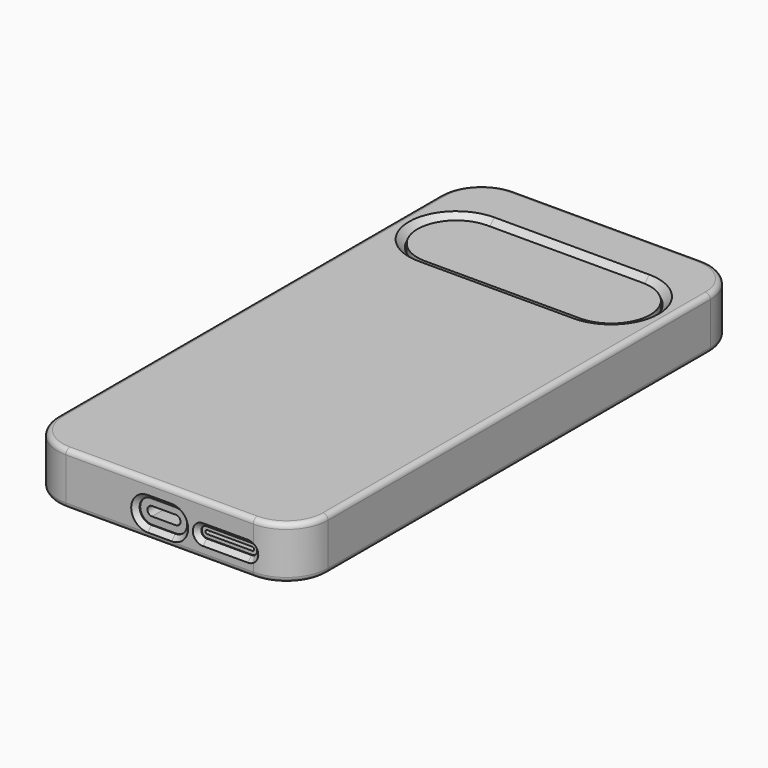
from build123d import *

# Parameters (mm, degrees)
PAD_DEPTH       = 8.5
FILLET_R        = 1
PAD001_DEPTH    = 3.5
PAD003_DEPTH    = 0.5
PAD004_DEPTH    = 0.5
POCKET002_DEPTH = 10
POCKET003_DEPTH = 5
PAD002_DEPTH    = 14.5
POCKET_DEPTH    = 10
POCKET001_DEPTH = 4.5
POCKET004_DEPTH = 5
POCKET005_DEPTH = 5
POCKET006_DEPTH = 5
PAD005_DEPTH    = 1.5
CHAMFER_SIZE    = 1.3
FILLET001_R     = 1.4
CHAMFER001_SIZE = 2


with BuildPart() as phone:
    # Sketch → Pad (new body)
    with BuildSketch(Plane.XY):
        with BuildLine():
            Line((-26, -76.3), (26, -76.3))
            ThreePointArc((26, -76.3), (33.071068, -73.371068), (36, -66.3))
            Line((36, -66.3), (36, 66.3))
            ThreePointArc((36, 66.3), (33.071068, 73.371068), (26, 76.3))
            Line((26, 76.3), (-26, 76.3))
            ThreePointArc((-26, 76.3), (-33.071068, 73.371068), (-36, 66.3))
            Line((-36, 66.3), (-36, -66.3))
            ThreePointArc((-36, -66.3), (-33.071068, -73.371068), (-26, -76.3))
        make_face()
    extrude(amount=PAD_DEPTH)

    # Fillet
    fillet_edges = [phone.edges().sort_by_distance(p)[0] for p in [
        (-26, -76.3, 4.25),
        (26, -76.3, 4.25),
        (0, -76.3, 0),
        (0, -76.3, 8.5),
        (36, -66.3, 4.25),
        (33.071068, -73.371068, 0),
        (33.071068, -73.371068, 8.5),
        (36, 66.3, 4.25),
        (36, 0, 0),
        (36, 0, 8.5),
        (26, 76.3, 4.25),
        (33.071068, 73.371068, 0),
        (33.071068, 73.371068, 8.5),
        (-26, 76.3, 4.25),
        (0, 76.3, 0),
        (0, 76.3, 8.5),
        (-36, 66.3, 4.25),
        (-33.071068, 73.371068, 0),
        (-33.071068, 73.371068, 8.5),
        (-36, -66.3, 4.25),
        (-36, 0, 0),
        (-36, 0, 8.5),
        (-33.071068, -73.371068, 0),
        (-33.071068, -73.371068, 8.5),
    ]]
    fillet(fillet_edges, radius=FILLET_R)

    # Sketch002 (on Face10 of Pad) → Pad001 (join)
    with BuildSketch(Plane.XY.offset(8.5)):
        with BuildLine():
            ThreePointArc((-21.5, 62.7), (-32.25, 51.95), (-21.5, 41.2))
            Line((-21.5, 41.2), (21.5, 41.2))
            ThreePointArc((21.5, 41.2), (32.25, 51.95), (21.5, 62.7))
            Line((-21.5, 62.7), (21.5, 62.7))
        make_face()
    extrude(amount=PAD001_DEPTH)

    # Sketch003 (on Face6 of Pad001) → Pad003 (join)
    with BuildSketch(Plane(origin=(-36, 0, 0), x_dir=(0, -1, 0), z_dir=(-1, 0, 0))):
        with BuildLine():
            Line((-35.3, 4.26), (-35.3, 4.24))
            ThreePointArc((-35.3, 4.24), (-34.863589, 3.186411), (-33.81, 2.75))
            Line((-33.81, 2.75), (-24.79, 2.75))
            ThreePointArc((-24.79, 2.75), (-23.736411, 3.186411), (-23.3, 4.24))
            Line((-23.3, 4.24), (-23.3, 4.26))
            ThreePointArc((-23.3, 4.26), (-23.736411, 5.313589), (-24.79, 5.75))
            Line((-24.79, 5.75), (-33.81, 5.75))
            ThreePointArc((-33.81, 5.75), (-34.863589, 5.313589), (-35.3, 4.26))
        make_face()
    extrude(amount=PAD003_DEPTH)

    # Sketch004 (on Face6 of Pad001) → Pad004 (join)
    with BuildSketch(Plane(origin=(-36, 0, 0), x_dir=(0, -1, 0), z_dir=(-1, 0, 0))):
        with BuildLine():
            Line((-16.3, 4.26), (-16.3, 4.24))
            ThreePointArc((-16.3, 4.24), (-15.863589, 3.186411), (-14.81, 2.75))
            Line((-14.81, 2.75), (4.21, 2.75))
            ThreePointArc((4.21, 2.75), (5.263589, 3.186411), (5.7, 4.24))
            Line((5.7, 4.24), (5.7, 4.26))
            ThreePointArc((5.7, 4.26), (5.263589, 5.313589), (4.21, 5.75))
            Line((4.21, 5.75), (-14.81, 5.75))
            ThreePointArc((-14.81, 5.75), (-15.863589, 5.313589), (-16.3, 4.26))
        make_face()
    extrude(amount=PAD004_DEPTH)

    # Sketch005 (on Face1 of Pad004) → Pocket002 (cut)
    with BuildSketch(Plane.XZ.offset(76.3)):
        with BuildLine():
            ThreePointArc((-3.315, 5.9), (-4.595, 4.62), (-3.315, 3.34))
            Line((-3.315, 3.34), (3.315, 3.34))
            ThreePointArc((3.315, 3.34), (4.595, 4.62), (3.315, 5.9))
            Line((-3.315, 5.9), (3.315, 5.9))
        make_face()
    extrude(amount=-POCKET002_DEPTH, mode=Mode.SUBTRACT)

    # Sketch006 (on Face1 of Pocket002) → Pocket003 (cut)
    with BuildSketch(Plane.XZ.offset(76.3)):
        with BuildLine():
            ThreePointArc((12, 5), (11.5, 4.5), (12, 4))
            Line((12, 4), (24.5, 4))
            ThreePointArc((24.5, 4), (25, 4.5), (24.5, 5))
            Line((12, 5), (24.5, 5))
        make_face()
    extrude(amount=-POCKET003_DEPTH, mode=Mode.SUBTRACT)


with BuildPart() as body001:
    # Binder → Pad002 (new body)
    with BuildSketch(Plane(origin=(0, 0, 13), x_dir=(0, 1, 0), z_dir=(0, 0, 1))):
        with BuildLine():
            Line((-77.8, 26), (-77.8, -26))
            ThreePointArc((-77.8, -26), (-74.431728, -34.131728), (-66.3, -37.5))
            Line((-66.3, -37.5), (66.3, -37.5))
            ThreePointArc((66.3, -37.5), (74.431728, -34.131728), (77.8, -26))
            Line((77.8, -26), (77.8, 26))
            ThreePointArc((77.8, 26), (74.431728, 34.131728), (66.3, 37.5))
            Line((66.3, 37.5), (-66.3, 37.5))
            ThreePointArc((-66.3, 37.5), (-74.431728, 34.131728), (-77.8, 26))
        make_face()
    extrude(amount=-PAD002_DEPTH)

    # Binder002 → Pocket (cut)
    with BuildSketch(Plane(origin=(0, 0, -1.5), x_dir=(0, -1, 0), z_dir=(0, 0, -1))):
        with BuildLine():
            Line((76.3, -26), (76.3, 26))
            ThreePointArc((76.3, 26), (73.371068, 33.071068), (66.3, 36))
            Line((66.3, 36), (-66.3, 36))
            ThreePointArc((-66.3, 36), (-73.371068, 33.071068), (-76.3, 26))
            Line((-76.3, 26), (-76.3, -26))
            ThreePointArc((-76.3, -26), (-73.371068, -33.071068), (-66.3, -36))
            Line((-66.3, -36), (66.3, -36))
            ThreePointArc((66.3, -36), (73.371068, -33.071068), (76.3, -26))
        make_face()
    extrude(amount=-POCKET_DEPTH, mode=Mode.SUBTRACT)

    # Binder001 → Pocket001 (cut)
    with BuildSketch(Plane(origin=(0, 51.95, 13), x_dir=(0, 1, 0), z_dir=(0, 0, 1))):
        with BuildLine():
            ThreePointArc((11.15, 21.5), (0, 32.65), (-11.15, 21.5))
            Line((-11.15, 21.5), (-11.15, -21.5))
            ThreePointArc((-11.15, -21.5), (0, -32.65), (11.15, -21.5))
            Line((11.15, -21.5), (11.15, 21.5))
        make_face()
    extrude(amount=-POCKET001_DEPTH, mode=Mode.SUBTRACT)

    # Binder004 → Pocket004 (cut)
    with BuildSketch(Plane(origin=(0, -76.3, 4.62), x_dir=(-1, 0, 0), z_dir=(0, -1, 0))):
        with BuildLine():
            ThreePointArc((3.315, -3.28), (6.595, 0), (3.315, 3.28))
            Line((3.315, 3.28), (-3.315, 3.28))
            ThreePointArc((-3.315, 3.28), (-6.595, 0), (-3.315, -3.28))
            Line((-3.315, -3.28), (3.315, -3.28))
        make_face()
    extrude(amount=POCKET004_DEPTH, mode=Mode.SUBTRACT)

    # Binder003 → Pocket005 (cut)
    with BuildSketch(Plane(origin=(18.25, -76.3, 4.5), x_dir=(-1, 0, 0), z_dir=(0, -1, 0))):
        with BuildLine():
            ThreePointArc((6.25, -1.5), (7.75, 0), (6.25, 1.5))
            Line((6.25, 1.5), (-6.25, 1.5))
            ThreePointArc((-6.25, 1.5), (-7.75, 0), (-6.25, -1.5))
            Line((-6.25, -1.5), (6.25, -1.5))
        make_face()
    extrude(amount=POCKET005_DEPTH, mode=Mode.SUBTRACT)

    # Binder005 → Pocket006 (cut)
    with BuildSketch(Plane(origin=(-35.5, 5.3, 4.25), x_dir=(0, -1, 0), z_dir=(1, 0, 0))):
        with BuildLine():
            Line((-13, 0.01), (-13, -0.01))
            ThreePointArc((-13, -0.01), (-11.977803, -2.477803), (-9.51, -3.5))
            Line((-9.51, -3.5), (9.51, -3.5))
            ThreePointArc((9.51, -3.5), (11.977803, -2.477803), (13, -0.01))
            Line((13, -0.01), (13, 0.01))
            ThreePointArc((13, 0.01), (11.977803, 2.477803), (9.51, 3.5))
            Line((9.51, 3.5), (-9.51, 3.5))
            ThreePointArc((-9.51, 3.5), (-11.977803, 2.477803), (-13, 0.01))
        make_face()
        with BuildLine():
            Line((-32, 0.01), (-32, -0.01))
            ThreePointArc((-32, -0.01), (-30.977803, -2.477803), (-28.51, -3.5))
            Line((-28.51, -3.5), (-19.49, -3.5))
            ThreePointArc((-19.49, -3.5), (-17.022197, -2.477803), (-16, -0.01))
            Line((-16, -0.01), (-16, 0.01))
            ThreePointArc((-16, 0.01), (-17.022197, 2.477803), (-19.49, 3.5))
            Line((-19.49, 3.5), (-28.51, 3.5))
            ThreePointArc((-28.51, 3.5), (-30.977803, 2.477803), (-32, 0.01))
        make_face()
    extrude(amount=-POCKET006_DEPTH, mode=Mode.SUBTRACT)

    # Binder006 → Pad005 (join)
    with BuildSketch(Plane(origin=(0, 0, -1.5), x_dir=(0, -1, 0), z_dir=(0, 0, -1))):
        with BuildLine():
            Line((77.8, -26), (77.8, 26))
            ThreePointArc((77.8, 26), (74.431728, 34.131728), (66.3, 37.5))
            Line((66.3, 37.5), (-66.3, 37.5))
            ThreePointArc((-66.3, 37.5), (-74.431728, 34.131728), (-77.8, 26))
            Line((-77.8, 26), (-77.8, -26))
            ThreePointArc((-77.8, -26), (-74.431728, -34.131728), (-66.3, -37.5))
            Line((-66.3, -37.5), (66.3, -37.5))
            ThreePointArc((66.3, -37.5), (74.431728, -34.131728), (77.8, -26))
        make_face()
    extrude(amount=-PAD005_DEPTH)

    # Binder007 → SubtractiveLoft section 0
    with BuildSketch(Plane(origin=(0, 0, -1.5), x_dir=(0, -1, 0), z_dir=(0, 0, -1))):
        with BuildLine():
            Line((76.3, -26), (76.3, 26))
            ThreePointArc((76.3, 26), (73.371068, 33.071068), (66.3, 36))
            Line((66.3, 36), (-66.3, 36))
            ThreePointArc((-66.3, 36), (-73.371068, 33.071068), (-76.3, 26))
            Line((-76.3, 26), (-76.3, -26))
            ThreePointArc((-76.3, -26), (-73.371068, -33.071068), (-66.3, -36))
            Line((-66.3, -36), (66.3, -36))
            ThreePointArc((66.3, -36), (73.371068, -33.071068), (76.3, -26))
        make_face()
    # Binder008 → SubtractiveLoft section 1
    with BuildSketch(Plane(origin=(0, 0, 0), x_dir=(0, -1, 0), z_dir=(0, 0, -1))):
        with BuildLine():
            Line((75.3, -26), (75.3, 26))
            ThreePointArc((75.3, 26), (72.663961, 32.363961), (66.3, 35))
            Line((66.3, 35), (-66.3, 35))
            ThreePointArc((-66.3, 35), (-72.663961, 32.363961), (-75.3, 26))
            Line((-75.3, 26), (-75.3, -26))
            ThreePointArc((-75.3, -26), (-72.663961, -32.363961), (-66.3, -35))
            Line((-66.3, -35), (66.3, -35))
            ThreePointArc((66.3, -35), (72.663961, -32.363961), (75.3, -26))
        make_face()
    loft(mode=Mode.SUBTRACT)

    # Chamfer
    chamfer_edges = [body001.edges().sort_by_distance(p)[0] for p in [
        (0, -77.8, 1.34),
        (6.595, -77.8, 4.62),
        (0, -77.8, 7.9),
        (-6.595, -77.8, 4.62),
        (18.25, -77.8, 3),
        (10.5, -77.8, 4.5),
        (18.25, -77.8, 6),
        (25.56066, -77.8, 5.56066),
        (25.56066, -77.8, 3.43934),
        (-37.5, 5.3, 0.75),
        (-37.5, -6.677803, 1.772197),
        (-37.5, -6.677803, 6.727803),
        (-37.5, 5.3, 7.75),
        (-37.5, 17.277803, 6.727803),
        (-37.5, 17.277803, 1.772197),
        (-37.5, 22.322197, 1.772197),
        (-37.5, 29.3, 0.75),
        (-37.5, 36.277803, 1.772197),
        (-37.5, 36.277803, 6.727803),
        (-37.5, 29.3, 7.75),
        (-37.5, 22.322197, 6.727803),
    ]]
    chamfer(chamfer_edges, length=CHAMFER_SIZE)

    # Fillet001
    fillet001_edges = [body001.edges().sort_by_distance(p)[0] for p in [
        (37.5, 0, -1.5),
        (34.131728, -74.431728, -1.5),
        (0, -77.8, -1.5),
        (-34.131728, -74.431728, -1.5),
        (-37.5, 0, -1.5),
        (-34.131728, 74.431728, -1.5),
        (0, 77.8, -1.5),
        (34.131728, 74.431728, -1.5),
        (34.131728, -74.431728, 13),
        (0, -77.8, 13),
        (-34.131728, -74.431728, 13),
        (37.5, 0, 13),
        (-37.5, 0, 13),
        (-34.131728, 74.431728, 13),
        (0, 77.8, 13),
        (34.131728, 74.431728, 13),
    ]]
    fillet(fillet001_edges, radius=FILLET001_R)

    # Chamfer001
    chamfer001_edges = [body001.edges().sort_by_distance(p)[0] for p in [
        (0, 63.1, 13),
        (32.65, 51.95, 13),
        (0, 40.8, 13),
        (-32.65, 51.95, 13),
    ]]
    chamfer(chamfer001_edges, length=CHAMFER001_SIZE)


solid = Compound([phone.part, body001.part])
